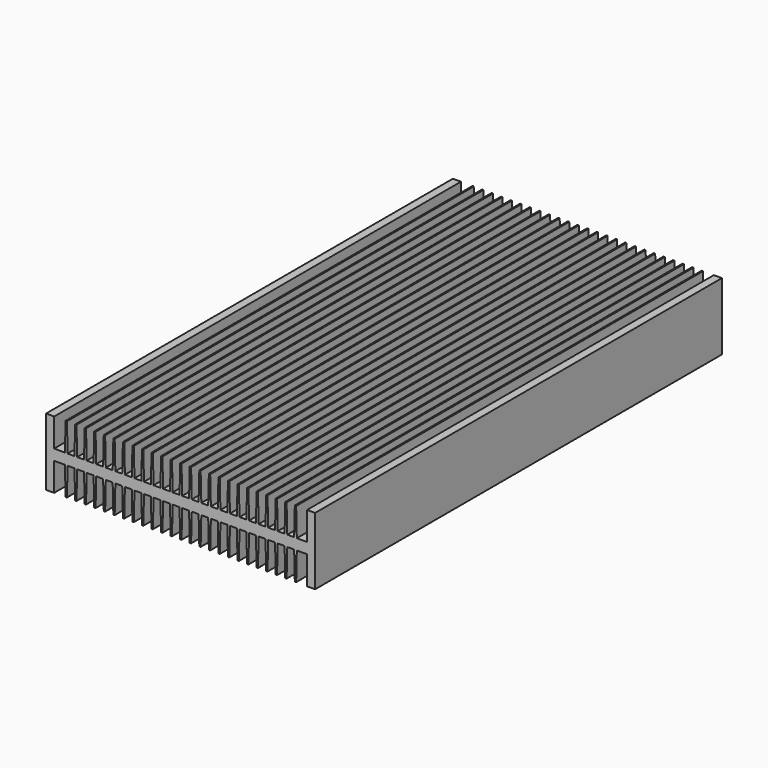
from build123d import *

# Parameters (mm, degrees)
F1_DEPTH = 378


with BuildPart() as f1:
    # F0 (on Front) → F1 (new body)
    with BuildSketch(Plane.XZ):
        with BuildLine():
            Line((8.497136, 20.879693), (8, 0))
            Line((8, 0), (0, 0))
            Line((0, 0), (0, 21))
            Line((0, 21), (-6, 21))
            Line((-6, 21), (-6, -4))
            Line((-6, -4), (194, -4))
            Line((194, -4), (194, 21))
            Line((194, 21), (188, 21))
            Line((188, 21), (188, 0))
            Line((188, 0), (180.4, 0))
            Line((180.4, 0), (179.902865, 20.879679))
            ThreePointArc((179.902865, 20.879679), (179.865756, 20.964931), (179.779645, 21))
            Line((179.779645, 21), (179.022185, 21))
            ThreePointArc((179.022185, 21), (178.934902, 20.965581), (178.897136, 20.879693))
            Line((178.897136, 20.879693), (178.4, 0))
            Line((178.4, 0), (173.3, 0))
            Line((173.3, 0), (172.802865, 20.879679))
            ThreePointArc((172.802865, 20.879679), (172.765756, 20.964931), (172.679645, 21))
            Line((172.679645, 21), (171.922185, 21))
            ThreePointArc((171.922185, 21), (171.834902, 20.965581), (171.797136, 20.879693))
            Line((171.797136, 20.879693), (171.3, 0))
            Line((171.3, 0), (166.2, 0))
            Line((166.2, 0), (165.702865, 20.879679))
            ThreePointArc((165.702865, 20.879679), (165.665756, 20.964931), (165.579645, 21))
            Line((165.579645, 21), (164.822185, 21))
            ThreePointArc((164.822185, 21), (164.734902, 20.965581), (164.697136, 20.879693))
            Line((164.697136, 20.879693), (164.2, 0))
            Line((164.2, 0), (159.1, 0))
            Line((159.1, 0), (158.602865, 20.879679))
            ThreePointArc((158.602865, 20.879679), (158.565756, 20.964931), (158.479645, 21))
            Line((158.479645, 21), (157.722185, 21))
            ThreePointArc((157.722185, 21), (157.634902, 20.965581), (157.597136, 20.879693))
            Line((157.597136, 20.879693), (157.1, 0))
            Line((157.1, 0), (152, 0))
            Line((152, 0), (151.502865, 20.879679))
            ThreePointArc((151.502865, 20.879679), (151.465756, 20.964931), (151.379645, 21))
            Line((151.379645, 21), (150.622185, 21))
            ThreePointArc((150.622185, 21), (150.534902, 20.965581), (150.497136, 20.879693))
            Line((150.497136, 20.879693), (150, 0))
            Line((150, 0), (144.9, 0))
            Line((144.9, 0), (144.402865, 20.879679))
            ThreePointArc((144.402865, 20.879679), (144.365756, 20.964931), (144.279645, 21))
            Line((144.279645, 21), (143.522185, 21))
            ThreePointArc((143.522185, 21), (143.434902, 20.965581), (143.397136, 20.879693))
            Line((143.397136, 20.879693), (142.9, 0))
            Line((142.9, 0), (137.8, 0))
            Line((137.8, 0), (137.302865, 20.879679))
            ThreePointArc((137.302865, 20.879679), (137.265756, 20.964931), (137.179645, 21))
            Line((137.179645, 21), (136.422185, 21))
            ThreePointArc((136.422185, 21), (136.334902, 20.965581), (136.297136, 20.879693))
            Line((136.297136, 20.879693), (135.8, 0))
            Line((135.8, 0), (130.7, 0))
            Line((130.7, 0), (130.202865, 20.879679))
            ThreePointArc((130.202865, 20.879679), (130.165756, 20.964931), (130.079645, 21))
            Line((130.079645, 21), (129.322185, 21))
            ThreePointArc((129.322185, 21), (129.234902, 20.965581), (129.197136, 20.879693))
            Line((129.197136, 20.879693), (128.7, 0))
            Line((128.7, 0), (123.6, 0))
            Line((123.6, 0), (123.102865, 20.879679))
            ThreePointArc((123.102865, 20.879679), (123.065756, 20.964931), (122.979645, 21))
            Line((122.979645, 21), (122.222185, 21))
            ThreePointArc((122.222185, 21), (122.134902, 20.965581), (122.097136, 20.879693))
            Line((122.097136, 20.879693), (121.6, 0))
            Line((121.6, 0), (116.5, 0))
            Line((116.5, 0), (116.002865, 20.879679))
            ThreePointArc((116.002865, 20.879679), (115.965756, 20.964931), (115.879645, 21))
            Line((115.879645, 21), (115.122185, 21))
            ThreePointArc((115.122185, 21), (115.034902, 20.965581), (114.997136, 20.879693))
            Line((114.997136, 20.879693), (114.5, 0))
            Line((114.5, 0), (109.4, 0))
            Line((109.4, 0), (108.902865, 20.879679))
            ThreePointArc((108.902865, 20.879679), (108.865756, 20.964931), (108.779645, 21))
            Line((108.779645, 21), (108.022185, 21))
            ThreePointArc((108.022185, 21), (107.934902, 20.965581), (107.897136, 20.879693))
            Line((107.897136, 20.879693), (107.4, 0))
            Line((107.4, 0), (102.3, 0))
            Line((102.3, 0), (101.802865, 20.879679))
            ThreePointArc((101.802865, 20.879679), (101.765756, 20.964931), (101.679645, 21))
            Line((101.679645, 21), (100.922185, 21))
            ThreePointArc((100.922185, 21), (100.834902, 20.965581), (100.797136, 20.879693))
            Line((100.797136, 20.879693), (100.3, 0))
            Line((100.3, 0), (95.2, 0))
            Line((95.2, 0), (94.702865, 20.879679))
            ThreePointArc((94.702865, 20.879679), (94.665756, 20.964931), (94.579645, 21))
            Line((94.579645, 21), (93.822185, 21))
            ThreePointArc((93.822185, 21), (93.734902, 20.965581), (93.697136, 20.879693))
            Line((93.697136, 20.879693), (93.2, 0))
            Line((93.2, 0), (88.1, 0))
            Line((88.1, 0), (87.602865, 20.879679))
            ThreePointArc((87.602865, 20.879679), (87.565756, 20.964931), (87.479645, 21))
            Line((87.479645, 21), (86.722185, 21))
            ThreePointArc((86.722185, 21), (86.634902, 20.965581), (86.597136, 20.879693))
            Line((86.597136, 20.879693), (86.1, 0))
            Line((86.1, 0), (81, 0))
            Line((81, 0), (80.502865, 20.879679))
            ThreePointArc((80.502865, 20.879679), (80.465756, 20.964931), (80.379645, 21))
            Line((80.379645, 21), (79.622185, 21))
            ThreePointArc((79.622185, 21), (79.534902, 20.965581), (79.497136, 20.879693))
            Line((79.497136, 20.879693), (79, 0))
            Line((79, 0), (73.9, 0))
            Line((73.9, 0), (73.402865, 20.879679))
            ThreePointArc((73.402865, 20.879679), (73.365756, 20.964931), (73.279645, 21))
            Line((73.279645, 21), (72.522185, 21))
            ThreePointArc((72.522185, 21), (72.434902, 20.965581), (72.397136, 20.879693))
            Line((72.397136, 20.879693), (71.9, 0))
            Line((71.9, 0), (66.8, 0))
            Line((66.8, 0), (66.302865, 20.879679))
            ThreePointArc((66.302865, 20.879679), (66.265756, 20.964931), (66.179645, 21))
            Line((66.179645, 21), (65.422185, 21))
            ThreePointArc((65.422185, 21), (65.334902, 20.965581), (65.297136, 20.879693))
            Line((65.297136, 20.879693), (64.8, 0))
            Line((64.8, 0), (59.7, 0))
            Line((59.7, 0), (59.202865, 20.879679))
            ThreePointArc((59.202865, 20.879679), (59.165756, 20.964931), (59.079645, 21))
            Line((59.079645, 21), (58.322185, 21))
            ThreePointArc((58.322185, 21), (58.234902, 20.965581), (58.197136, 20.879693))
            Line((58.197136, 20.879693), (57.7, 0))
            Line((57.7, 0), (52.6, 0))
            Line((52.6, 0), (52.102865, 20.879679))
            ThreePointArc((52.102865, 20.879679), (52.065756, 20.964931), (51.979645, 21))
            Line((51.979645, 21), (51.222185, 21))
            ThreePointArc((51.222185, 21), (51.134902, 20.965581), (51.097136, 20.879693))
            Line((51.097136, 20.879693), (50.6, 0))
            Line((50.6, 0), (45.5, 0))
            Line((45.5, 0), (45.002865, 20.879679))
            ThreePointArc((45.002865, 20.879679), (44.965756, 20.964931), (44.879645, 21))
            Line((44.879645, 21), (44.122185, 21))
            ThreePointArc((44.122185, 21), (44.034902, 20.965581), (43.997136, 20.879693))
            Line((43.997136, 20.879693), (43.5, 0))
            Line((43.5, 0), (38.4, 0))
            Line((38.4, 0), (37.902865, 20.879679))
            ThreePointArc((37.902865, 20.879679), (37.865756, 20.964931), (37.779645, 21))
            Line((37.779645, 21), (37.022185, 21))
            ThreePointArc((37.022185, 21), (36.934902, 20.965581), (36.897136, 20.879693))
            Line((36.897136, 20.879693), (36.4, 0))
            Line((36.4, 0), (31.3, 0))
            Line((31.3, 0), (30.802865, 20.879679))
            ThreePointArc((30.802865, 20.879679), (30.765756, 20.964931), (30.679645, 21))
            Line((30.679645, 21), (29.922185, 21))
            ThreePointArc((29.922185, 21), (29.834902, 20.965581), (29.797136, 20.879693))
            Line((29.797136, 20.879693), (29.3, 0))
            Line((29.3, 0), (24.2, 0))
            Line((24.2, 0), (23.702865, 20.879679))
            ThreePointArc((23.702865, 20.879679), (23.665756, 20.964931), (23.579645, 21))
            Line((23.579645, 21), (22.822185, 21))
            ThreePointArc((22.822185, 21), (22.734902, 20.965581), (22.697136, 20.879693))
            Line((22.697136, 20.879693), (22.2, 0))
            Line((22.2, 0), (17.1, 0))
            Line((17.1, 0), (16.602865, 20.879679))
            ThreePointArc((16.602865, 20.879679), (16.565756, 20.964931), (16.479645, 21))
            Line((16.479645, 21), (15.722185, 21))
            ThreePointArc((15.722185, 21), (15.634902, 20.965581), (15.597136, 20.879693))
            Line((15.597136, 20.879693), (15.1, 0))
            Line((15.1, 0), (10, 0))
            Line((10, 0), (9.502865, 20.879679))
            ThreePointArc((9.502865, 20.879679), (9.465756, 20.964931), (9.379645, 21))
            Line((9.379645, 21), (9, 21))
            Line((9, 21), (8.622185, 21))
            ThreePointArc((8.622185, 21), (8.534902, 20.965581), (8.497136, 20.879693))
        make_face()
    extrude(amount=F1_DEPTH)

    # F2: F1 across face


with BuildPart() as f1_1:
    add(f1.part)
    add(f1.part.mirror(Plane(origin=(94, -189, -4), x_dir=(1, 0, 0), z_dir=(0, 0, -1))))


solid = f1_1.part
